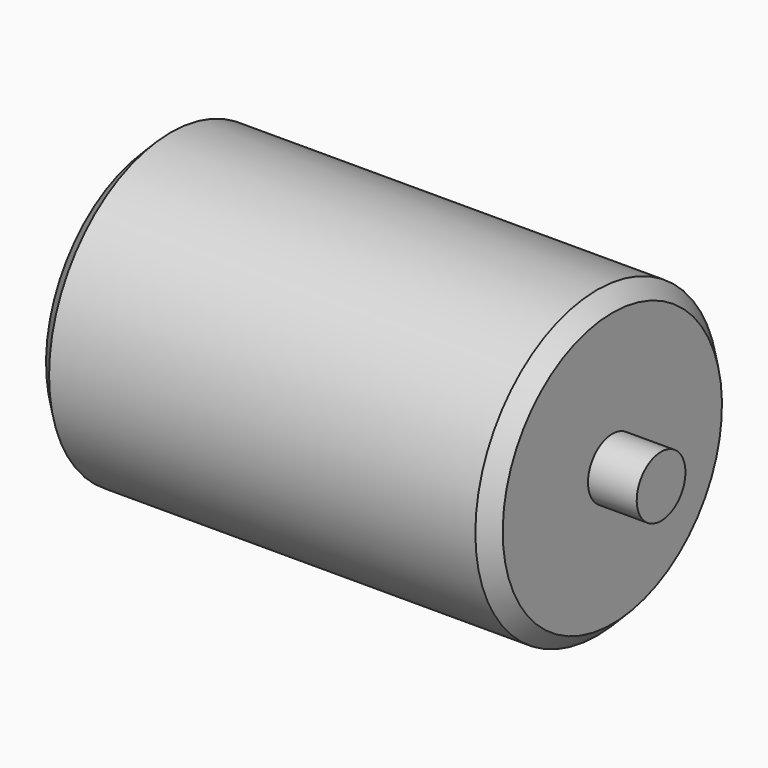
from build123d import *

# Parameters (mm, degrees)
F0_W     = 16
F0_H     = 10
F2_SIZE2 = 5
F2_SIZE  = 5


with BuildPart() as f1:
    # F0 (on Front) → F1 (revolve)
    with BuildSketch(Plane.XZ):
        Polygon((0, 10), (0, 0), (150, 0), (150, 10), (150, 50), (0, 50), align=None)
        with Locations((-8, 5)):
            Rectangle(F0_W, F0_H)
        with Locations((158, 5)):
            Rectangle(F0_W, F0_H)
    revolve(axis=Axis((75, 0, 0), (1, 0, 0)))

    # F2
    f2_edges = [f1.edges().sort_by_distance(p)[0] for p in [
        (150, 0, -50),
        (0, 0, -50),
    ]]
    chamfer(f2_edges, length=F2_SIZE, length2=F2_SIZE2)


solid = f1.part
